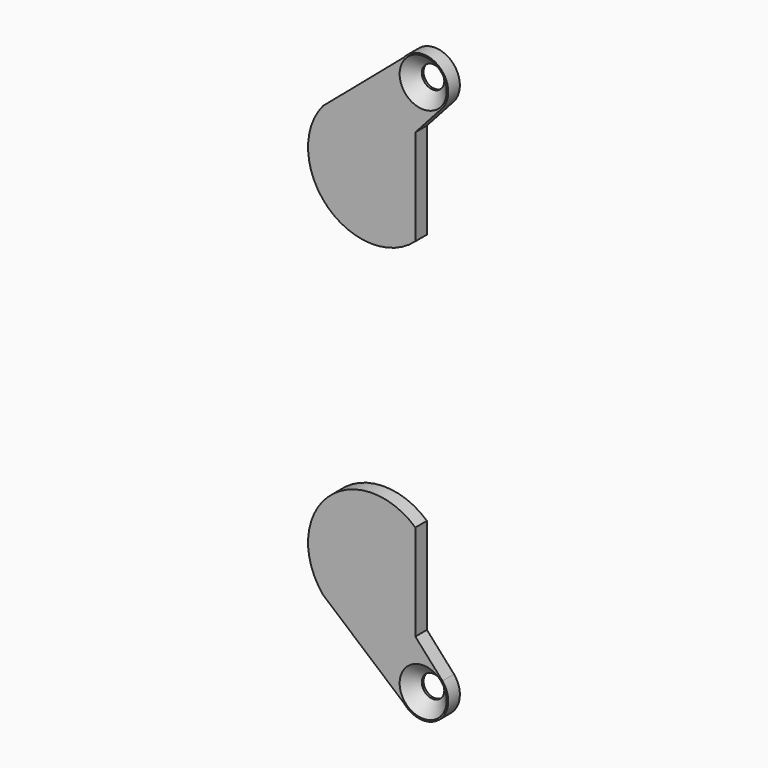
from build123d import *

# Parameters (mm, degrees)
F0_R     = 1.55
F1_DEPTH = 2
F2_SIZE  = 1.7


with BuildPart() as f1:
    # F0 (on Front) → F1 (new body)
    with BuildSketch(Plane.XZ):
        with BuildLine():
            Line((2.482982, -30.623126), (2.482982, -17.376874))
            ThreePointArc((2.482982, -17.376874), (-9.604514, -17.610629), (-10.261097, -29.682542))
            Line((-10.261097, -29.682542), (0.907374, -39.212431))
            ThreePointArc((0.907374, -39.212431), (5.777486, -39.657682), (6.222737, -34.787569))
            Line((6.222737, -34.787569), (2.482982, -30.623126))
        make_face()
        with Locations((3.565055, -37)):
            Circle(F0_R, mode=Mode.SUBTRACT)
        with BuildLine():
            ThreePointArc((6.222737, 34.787569), (5.777486, 39.657682), (0.907374, 39.212431))
            Line((0.907374, 39.212431), (-10.261097, 29.682542))
            ThreePointArc((-10.261097, 29.682542), (-9.604514, 17.610629), (2.482982, 17.376874))
            Line((2.482982, 17.376874), (2.482982, 30.623126))
            Line((2.482982, 30.623126), (6.222737, 34.787569))
        make_face()
        with Locations((3.565055, 37)):
            Circle(F0_R, mode=Mode.SUBTRACT)
    extrude(amount=F1_DEPTH)

    # F2
    f2_edges = [f1.edges().sort_by_distance(p)[0] for p in [
        (2.015055, -2, -37),
        (2.015055, -2, 37),
    ]]
    chamfer(f2_edges, length=F2_SIZE)


solid = f1.part
